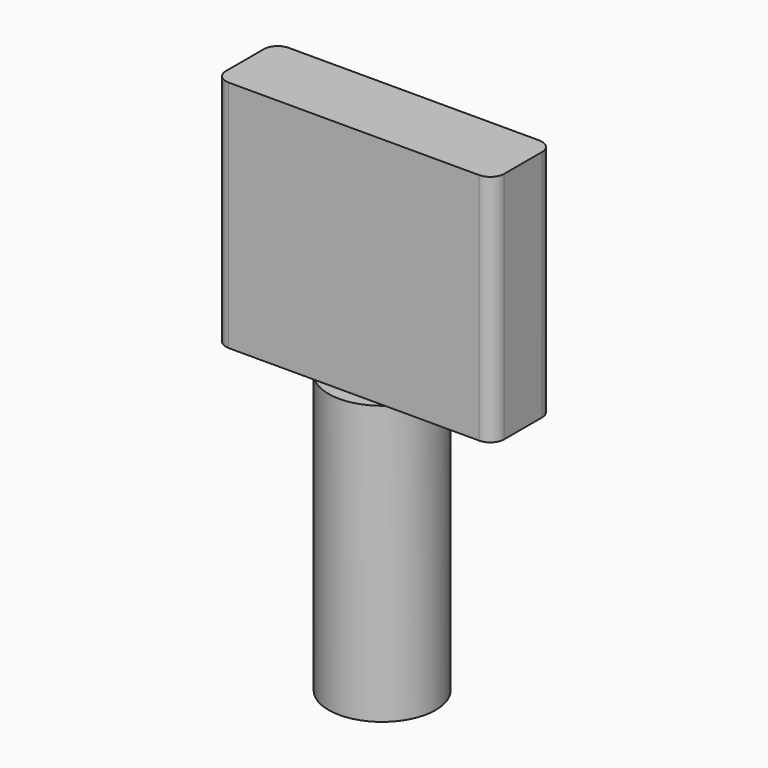
from build123d import *

# Parameters (mm, degrees)
F0_R     = 4.8895
F1_DEPTH = 25.4
F3_DEPTH = 21.336


with BuildPart() as f1:
    # F0 (on Top) → F1 (new body)
    with BuildSketch(Plane.XY):
        Circle(F0_R)
    extrude(amount=F1_DEPTH)

    # F2 (on face) → F3 (join)
    with BuildSketch(Plane.XY.offset(25.4)):
        with BuildLine():
            Line((11.808428, 3.165239), (-11.051572, 3.165239))
            ThreePointArc((-11.051572, 3.165239), (-11.949598, 2.793265), (-12.321572, 1.895239))
            Line((-12.321572, 1.895239), (-12.321572, -2.422761))
            ThreePointArc((-12.321572, -2.422761), (-11.949598, -3.320786), (-11.051572, -3.692761))
            Line((-11.051572, -3.692761), (11.808428, -3.692761))
            ThreePointArc((11.808428, -3.692761), (12.706454, -3.320786), (13.078428, -2.422761))
            Line((13.078428, -2.422761), (13.078428, 1.895239))
            ThreePointArc((13.078428, 1.895239), (12.706454, 2.793265), (11.808428, 3.165239))
        make_face()
    extrude(amount=F3_DEPTH)


solid = f1.part
